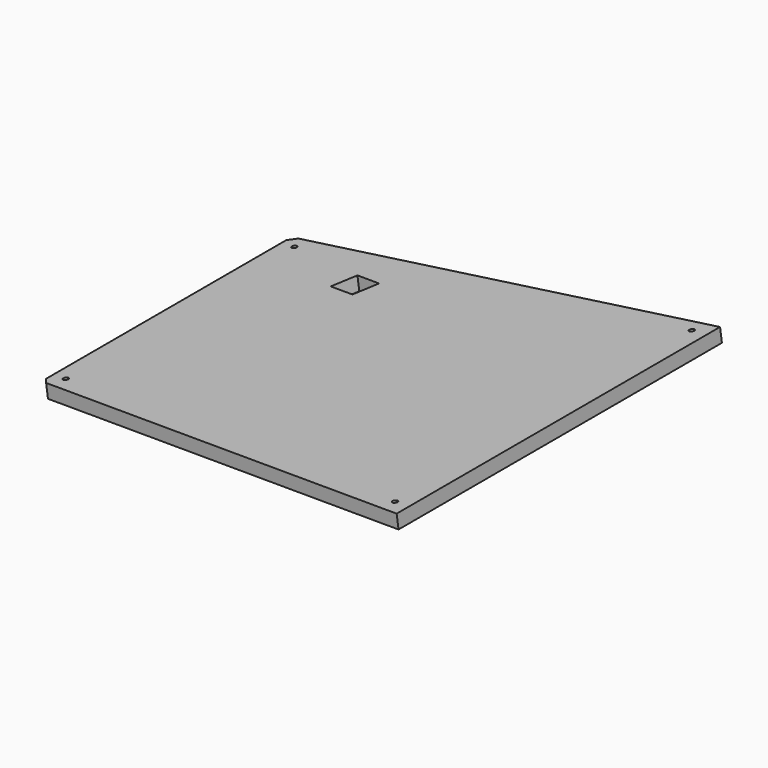
from build123d import *

# Parameters (mm, degrees)
EXTRUDE018_DEPTH                          = 25.4
EXTRUDE018_ONTO_SKETCH024_PLACEMENT_ANGLE = 8
SKETCH018_AS_DRAWN_R                      = 1.2
EXTRUDE009_DEPTH                          = 7.8
EXTRUDE009_ONTO_SKETCH018_PLACEMENT_ANGLE = 8
EXTRUDE012_DEPTH                          = 6.35
EXTRUDE012_ONTO_SKETCH021_PLACEMENT_ANGLE = 8


with BuildPart() as reset_switch_hole:
    # Sketch024 as drawn → Extrude018 (new, symmetric)
    with BuildSketch(Plane.XY):
        Polygon((-152.83455, 73.27651), (-140.412076, 70.636031), (-143.052554, 58.213557), (-155.475029, 60.854035), align=None)
    extrude(amount=EXTRUDE018_DEPTH, both=True)


with BuildPart() as reset_switch_hole_1:
    # Extrude018 onto Sketch024 placement: moved
    add(reset_switch_hole.part.moved(Location((-7.384231, 0, 52.541536))).rotate(Axis((-7.384231, 0, 52.541536), (0, -1, 0)), EXTRUDE018_ONTO_SKETCH024_PLACEMENT_ANGLE))


with BuildPart() as screw_hole_cuts:
    # Sketch018 as drawn → Extrude009 (new)
    with BuildSketch(Plane.XY):
        with Locations((-31.998318, 84.649891)):
            Circle(SKETCH018_AS_DRAWN_R)
        with Locations((-31.998318, -89.695043)):
            Circle(SKETCH018_AS_DRAWN_R)
        with Locations((156.654735, -49.595599)):
            Circle(SKETCH018_AS_DRAWN_R)
        with Locations((156.654735, 84.649891)):
            Circle(SKETCH018_AS_DRAWN_R)
    extrude(amount=EXTRUDE009_DEPTH)


with BuildPart() as screw_hole_cuts_1:
    # Extrude009 onto Sketch018 placement: moved
    add(screw_hole_cuts.part.moved(Location((39.98734, 0, 30.691416))).rotate(Axis((39.98734, 0, 30.691416), (0, 1, 0)), EXTRUDE009_ONTO_SKETCH018_PLACEMENT_ANGLE))


with BuildPart() as right_top_solid_w_screw_holes:
    # Sketch021 as drawn → Extrude012 (new)
    with BuildSketch(Plane.XY):
        Polygon((-39.826537, 91.531891), (-39.826537, -98.44048), (161.021837, -55.74884), (163.536735, -52.643218), (163.536735, 88.356895), (160.361736, 91.531891), align=None)
    extrude(amount=EXTRUDE012_DEPTH)


with BuildPart() as right_top_solid_w_screw_holes_1:
    # Extrude012 onto Sketch021 placement: moved
    add(right_top_solid_w_screw_holes.part.moved(Location((40.182182, 0, 32.077791))).rotate(Axis((40.182182, 0, 32.077791), (0, 1, 0)), EXTRUDE012_ONTO_SKETCH021_PLACEMENT_ANGLE))

    # Cut004: cut Screw Hole Cuts
    add(screw_hole_cuts_1.part, mode=Mode.SUBTRACT)


with BuildPart() as cut013:
    # Part__Mirroring002: instance of Right Top Solid w/ Screw Holes
    add(right_top_solid_w_screw_holes_1.part.mirror(Plane(origin=(0, 0, 0), x_dir=(0, -1, 0), z_dir=(1, 0, 0))))

    # Cut013: cut Reset Switch Hole
    add(reset_switch_hole_1.part, mode=Mode.SUBTRACT)


solid = cut013.part
